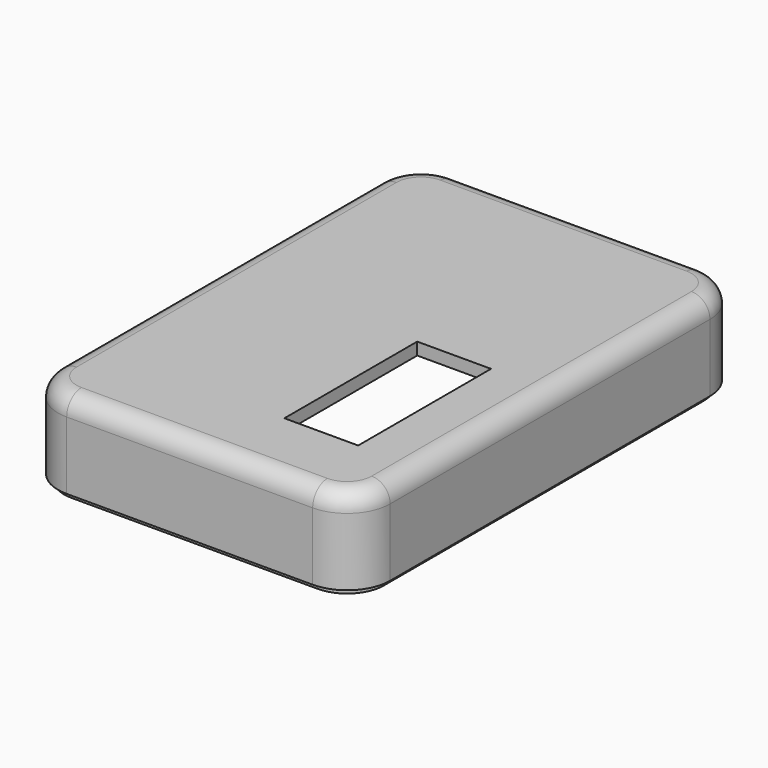
from build123d import *

# Parameters (mm, degrees)
PAD002_DEPTH            = 2
PAD003_DEPTH            = 12
FILLET001_R             = 3
SKETCH006_R             = 3
POCKET002_DEPTH         = 5
PAD004_DEPTH            = 1
FILLET003_R             = 1
SKETCH018_W             = 12
SKETCH018_H             = 27
POCKET004_DEPTH         = 5
BODY001_PLACEMENT_ANGLE = 180


with BuildPart() as part:
    # Sketch003 → Pad002 (new body)
    with BuildSketch(Plane.XY):
        with BuildLine():
            Line((-27, 32.5), (-27, -32.5))
            ThreePointArc((-27, -32.5), (-24.949747, -37.449747), (-20, -39.5))
            Line((-20, -39.5), (20, -39.5))
            ThreePointArc((20, -39.5), (24.949747, -37.449747), (27, -32.5))
            Line((27, -32.5), (27, 32.5))
            ThreePointArc((27, 32.5), (24.949747, 37.449747), (20, 39.5))
            Line((20, 39.5), (-20, 39.5))
            ThreePointArc((-20, 39.5), (-24.949747, 37.449747), (-27, 32.5))
        make_face()
    extrude(amount=PAD002_DEPTH)

    # Sketch004 (on Face10 of Pad002) → Pad003 (join)
    with BuildSketch(Plane.XY.offset(2)):
        with BuildLine():
            Line((-27, 32.5), (-27, -32.5))
            ThreePointArc((-27, -32.5), (-24.949747, -37.449747), (-20, -39.5))
            Line((-20, -39.5), (20, -39.5))
            ThreePointArc((20, -39.5), (24.949747, -37.449747), (27, -32.5))
            Line((27, -32.5), (27, 32.5))
            ThreePointArc((27, 32.5), (24.949747, 37.449747), (20, 39.5))
            Line((20, 39.5), (-20, 39.5))
            ThreePointArc((-20, 39.5), (-24.949747, 37.449747), (-27, 32.5))
        make_face()
        with BuildLine():
            Line((-25, 32.5), (-25, -32.5))
            ThreePointArc((-25, -32.5), (-23.535534, -36.035534), (-20, -37.5))
            Line((-20, -37.5), (20, -37.5))
            ThreePointArc((20, -37.5), (23.535534, -36.035534), (25, -32.5))
            Line((25, -32.5), (25, 32.5))
            ThreePointArc((25, 32.5), (23.535534, 36.035534), (20, 37.5))
            Line((20, 37.5), (-20, 37.5))
            ThreePointArc((-20, 37.5), (-23.535534, 36.035534), (-25, 32.5))
        make_face(mode=Mode.SUBTRACT)
    extrude(amount=PAD003_DEPTH)

    # Fillet001
    fillet001_edges = [part.edges().sort_by_distance(p)[0] for p in [
        (0, -39.5, 0),
    ]]
    fillet(fillet001_edges, radius=FILLET001_R)

    # Sketch006 (on Face17 of Fillet001) → Pocket002 (cut)
    with BuildSketch(Plane(origin=(0, 39.5, 0), x_dir=(-1, 0, 0), z_dir=(0, 1, 0))):
        with Locations((-10, 8.5)):
            Circle(SKETCH006_R)
        with Locations((10, 8.5)):
            Circle(SKETCH006_R)
    extrude(amount=-POCKET002_DEPTH, mode=Mode.SUBTRACT)

    # Sketch008 (on Face18 of Pocket002) → Pad004 (join)
    with BuildSketch(Plane.XY.offset(14)):
        with BuildLine():
            Line((-26, 32.5), (-26, -32.5))
            ThreePointArc((-26, -32.5), (-24.242641, -36.742641), (-20, -38.5))
            Line((-20, -38.5), (20, -38.5))
            ThreePointArc((20, -38.5), (24.242641, -36.742641), (26, -32.5))
            Line((26, -32.5), (26, 32.5))
            ThreePointArc((26, 32.5), (24.242641, 36.742641), (20, 38.5))
            Line((20, 38.5), (-20, 38.5))
            ThreePointArc((-20, 38.5), (-24.242641, 36.742641), (-26, 32.5))
        make_face()
        with BuildLine():
            Line((-25, 32.5), (-25, -32.5))
            ThreePointArc((-25, -32.5), (-23.535534, -36.035534), (-20, -37.5))
            Line((-20, -37.5), (20, -37.5))
            ThreePointArc((20, -37.5), (23.535534, -36.035534), (25, -32.5))
            Line((25, -32.5), (25, 32.5))
            ThreePointArc((25, 32.5), (23.535534, 36.035534), (20, 37.5))
            Line((20, 37.5), (-20, 37.5))
            ThreePointArc((-20, 37.5), (-23.535534, 36.035534), (-25, 32.5))
        make_face(mode=Mode.SUBTRACT)
    extrude(amount=PAD004_DEPTH)

    # Fillet003
    fillet003_edges = [part.edges().sort_by_distance(p)[0] for p in [
        (-7, 39.5, 8.5),
        (13, 39.5, 8.5),
    ]]
    fillet(fillet003_edges, radius=FILLET003_R)

    # Sketch018 (on Face12 of Fillet003) → Pocket004 (cut)
    with BuildSketch(Plane(origin=(0, 0, 0), x_dir=(1, 0, 0), z_dir=(0, 0, -1))):
        with Locations((-11.4, 13.5)):
            Rectangle(SKETCH018_W, SKETCH018_H)
    extrude(amount=-POCKET004_DEPTH, mode=Mode.SUBTRACT)


with BuildPart() as part_1:
    # Body001 placement: moved
    add(part.part.moved(Location((0, 0, 28))).rotate(Axis((0, 0, 28), (0, 1, 0)), BODY001_PLACEMENT_ANGLE))


solid = part_1.part
